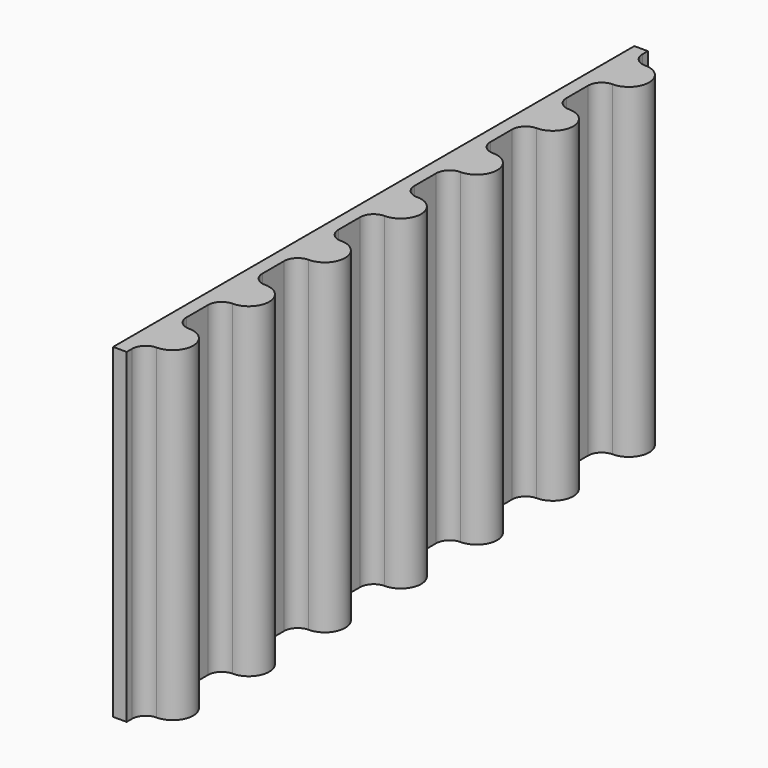
from build123d import *

# Parameters (mm, degrees)
F1_DEPTH = 609.6


with BuildPart() as f1:
    # F0 (on Top) → F1 (new body)
    with BuildSketch(Plane.XY):
        with BuildLine():
            Line((0, 1219.2), (0, 0))
            Line((0, 0), (25.4, 0))
            Line((25.4, 0), (25.4, 12.7))
            Line((25.4, 12.7), (25.4, 139.7))
            Line((25.4, 139.7), (25.4, 190.5))
            Line((25.4, 190.5), (25.4, 317.5))
            Line((25.4, 317.5), (25.4, 368.3))
            Line((25.4, 368.3), (25.4, 495.3))
            Line((25.4, 495.3), (25.4, 546.1))
            ThreePointArc((25.4, 546.1), (32.839488, 564.060512), (50.8, 571.5))
            ThreePointArc((50.8, 571.5), (88.9, 609.6), (50.8, 647.7))
            ThreePointArc((50.8, 647.7), (32.839488, 655.139488), (25.4, 673.1))
            Line((25.4, 673.1), (25.4, 723.9))
            Line((25.4, 723.9), (25.4, 850.9))
            Line((25.4, 850.9), (25.4, 901.7))
            Line((25.4, 901.7), (25.4, 1028.7))
            Line((25.4, 1028.7), (25.4, 1079.5))
            Line((25.4, 1079.5), (25.4, 1206.5))
            Line((25.4, 1206.5), (25.4, 1219.2))
            Line((25.4, 1219.2), (0, 1219.2))
        make_face()
        with BuildLine():
            Line((25.4, 139.7), (25.4, 12.7))
            ThreePointArc((25.4, 12.7), (32.839488, 30.660512), (50.8, 38.1))
            ThreePointArc((50.8, 38.1), (88.9, 76.2), (50.8, 114.3))
            ThreePointArc((50.8, 114.3), (32.839488, 121.739488), (25.4, 139.7))
        make_face()
        with BuildLine():
            ThreePointArc((50.8, 1181.1), (32.839488, 1188.539488), (25.4, 1206.5))
            Line((25.4, 1206.5), (25.4, 1079.5))
            ThreePointArc((25.4, 1079.5), (32.839488, 1097.460512), (50.8, 1104.9))
            ThreePointArc((50.8, 1104.9), (88.9, 1143), (50.8, 1181.1))
        make_face()
        with BuildLine():
            Line((25.4, 317.5), (25.4, 190.5))
            ThreePointArc((25.4, 190.5), (32.839488, 208.460512), (50.8, 215.9))
            ThreePointArc((50.8, 215.9), (88.9, 254), (50.8, 292.1))
            ThreePointArc((50.8, 292.1), (32.839488, 299.539488), (25.4, 317.5))
        make_face()
        with BuildLine():
            ThreePointArc((50.8, 1003.3), (32.839488, 1010.739488), (25.4, 1028.7))
            Line((25.4, 1028.7), (25.4, 901.7))
            ThreePointArc((25.4, 901.7), (32.839488, 919.660512), (50.8, 927.1))
            ThreePointArc((50.8, 927.1), (88.9, 965.2), (50.8, 1003.3))
        make_face()
        with BuildLine():
            Line((25.4, 495.3), (25.4, 368.3))
            ThreePointArc((25.4, 368.3), (32.839488, 386.260512), (50.8, 393.7))
            ThreePointArc((50.8, 393.7), (88.9, 431.8), (50.8, 469.9))
            ThreePointArc((50.8, 469.9), (32.839488, 477.339488), (25.4, 495.3))
        make_face()
        with BuildLine():
            ThreePointArc((50.8, 825.5), (32.839488, 832.939488), (25.4, 850.9))
            Line((25.4, 850.9), (25.4, 723.9))
            ThreePointArc((25.4, 723.9), (32.839488, 741.860512), (50.8, 749.3))
            ThreePointArc((50.8, 749.3), (88.9, 787.4), (50.8, 825.5))
        make_face()
    extrude(amount=F1_DEPTH)


solid = f1.part
